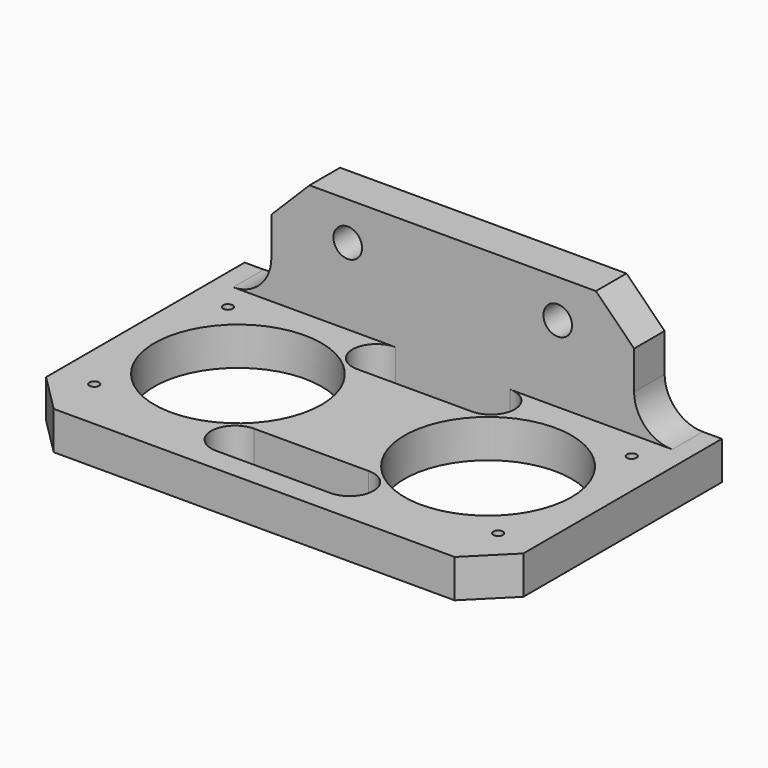
from build123d import *

# Parameters (mm, degrees)
SKETCH_R             = 1.5
PAD_DEPTH            = 4
SKETCH001_R          = 0.5
SKETCH001_R_2        = 8.75
PAD001_DEPTH         = 4
FILLET_R             = 4
CHAMFER_SIZE         = 4
BODY_PLACEMENT_ANGLE = 90


with BuildPart() as part:
    # Sketch → Pad (new body)
    with BuildSketch(Plane.XY):
        Polygon((-15, 4), (15, 4), (19, 0), (19, -8), (-19, -8), (-19, 0), align=None)
        with Locations((-11, 0)):
            Circle(SKETCH_R, mode=Mode.SUBTRACT)
        with Locations((11, 0)):
            Circle(SKETCH_R, mode=Mode.SUBTRACT)
    extrude(amount=PAD_DEPTH)

    # Sketch001 (on Face2 of Pad) → Pad001 (join)
    with BuildSketch(Plane.XZ.offset(8)):
        Polygon((-25, 30), (25, 30), (25, 0), (0, 0), (-25, 0), align=None)
        with Locations((-21.15, 24.5)):
            Circle(SKETCH001_R, mode=Mode.SUBTRACT)
        with Locations((-21.15, 7)):
            Circle(SKETCH001_R, mode=Mode.SUBTRACT)
        with Locations((21.15, 7)):
            Circle(SKETCH001_R, mode=Mode.SUBTRACT)
        with Locations((21.15, 24.5)):
            Circle(SKETCH001_R, mode=Mode.SUBTRACT)
        with Locations((-13.1, 15.75)):
            Circle(SKETCH001_R_2, mode=Mode.SUBTRACT)
        with Locations((13.1, 15.75)):
            Circle(SKETCH001_R_2, mode=Mode.SUBTRACT)
        with BuildLine():
            Line((-6, 4), (0, 4))
            Line((6, 4), (0, 4))
            ThreePointArc((6, 4), (8.5, 6.5), (6, 9))
            Line((-6, 9), (6, 9))
            ThreePointArc((-6, 9), (-8.5, 6.5), (-6, 4))
        make_face(mode=Mode.SUBTRACT)
        with BuildLine():
            Line((-6, 27.5), (0, 27.5))
            Line((0, 27.5), (6, 27.5))
            ThreePointArc((6, 22.5), (8.5, 25), (6, 27.5))
            Line((-6, 22.5), (6, 22.5))
            ThreePointArc((-6, 27.5), (-8.5, 25), (-6, 22.5))
        make_face(mode=Mode.SUBTRACT)
    extrude(amount=PAD001_DEPTH)

    # Fillet
    fillet_edges = [part.edges().sort_by_distance(p)[0] for p in [
        (19, -8, 2),
        (-19, -8, 2),
    ]]
    fillet(fillet_edges, radius=FILLET_R)

    # Chamfer
    chamfer_edges = [part.edges().sort_by_distance(p)[0] for p in [
        (-25, -10, 30),
        (25, -10, 30),
    ]]
    chamfer(chamfer_edges, length=CHAMFER_SIZE)


with BuildPart() as part_1:
    # Body placement: moved
    add(part.part.rotate(Axis((0, 0, 0), (1, 0, 0)), BODY_PLACEMENT_ANGLE))


solid = part_1.part
